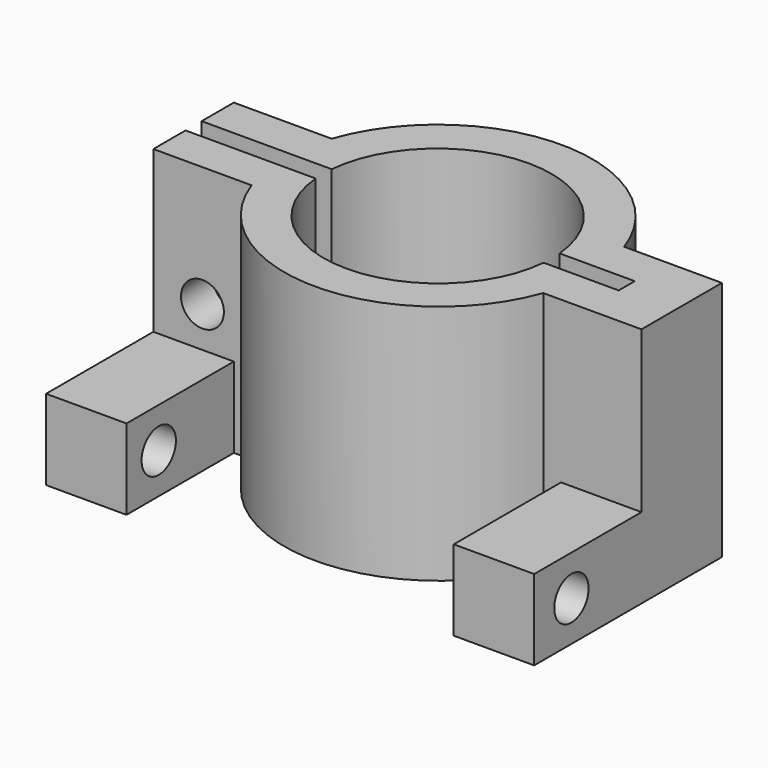
from build123d import *

# Parameters (mm, degrees)
F1_DEPTH  = 18
F3_D      = 3.2
F3_DEPTH  = 15
F4_W      = 6
F4_H      = 6
F5_DEPTH  = 10
F6_W      = 6
F6_H      = 6
F7_DEPTH  = 10
F9_D      = 3.2
F9_DEPTH  = 6
F11_D     = 3.2
F11_DEPTH = 6


with BuildPart() as f1:
    # F0 (on Top) → F1 (new body)
    with BuildSketch(Plane.XY):
        with BuildLine():
            Line((3, 13.278079), (-6.7, 13.278079))
            Line((-6.7, 13.278079), (-6.7, 10.278079))
            Line((-6.7, 10.278079), (0.622289, 10.278079))
            ThreePointArc((0.622289, 10.278079), (11.5, 2.620549), (22.377711, 10.278079))
            Line((22.377711, 10.278079), (23, 10.278079))
            Line((23, 10.278079), (29.7, 10.278079))
            Line((29.7, 10.278079), (29.7, 17.778079))
            Line((29.7, 17.778079), (22.406277, 17.778079))
            ThreePointArc((22.406277, 17.778079), (11.5, 25.549511), (0.593723, 17.778079))
            Line((0.593723, 17.778079), (-6.7, 17.778079))
            Line((-6.7, 17.778079), (-6.7, 14.778079))
            Line((-6.7, 14.778079), (3, 14.778079))
            ThreePointArc((3, 14.778079), (11.5, 22.528734), (20, 14.778079))
            Line((20, 14.778079), (25.6, 14.778079))
            Line((25.6, 14.778079), (25.6, 13.278079))
            Line((25.6, 13.278079), (23, 13.278079))
            Line((23, 13.278079), (20, 13.278079))
            ThreePointArc((20, 13.278079), (11.5, 5.523889), (3, 13.278079))
        make_face()
    extrude(amount=F1_DEPTH)

    # F3
    with Locations(Plane.XZ.offset(-10.278079)):
        with Locations((-3.038855, 9)):
            Hole(F3_D / 2, depth=F3_DEPTH)

    # F4 (on face) → F5 (join)
    with BuildSketch(Plane.XZ.offset(-10.278079)):
        with Locations((26.7, 3)):
            Rectangle(F4_W, F4_H)
    extrude(amount=F5_DEPTH)

    # F6 (on face) → F7 (join)
    with BuildSketch(Plane.XZ.offset(-10.278079)):
        with Locations((-3.7, 3)):
            Rectangle(F6_W, F6_H)
    extrude(amount=F7_DEPTH)

    # F9
    with Locations(Plane.YZ.offset(29.7)):
        with Locations((3.748374, 3)):
            Hole(F9_D / 2, depth=F9_DEPTH)

    # F11
    with Locations(Plane(origin=(-6.7, 0, 0), x_dir=(0, -1, 0), z_dir=(-1, 0, 0))):
        with Locations((-3.278079, 3)):
            Hole(F11_D / 2, depth=F11_DEPTH)


solid = f1.part
